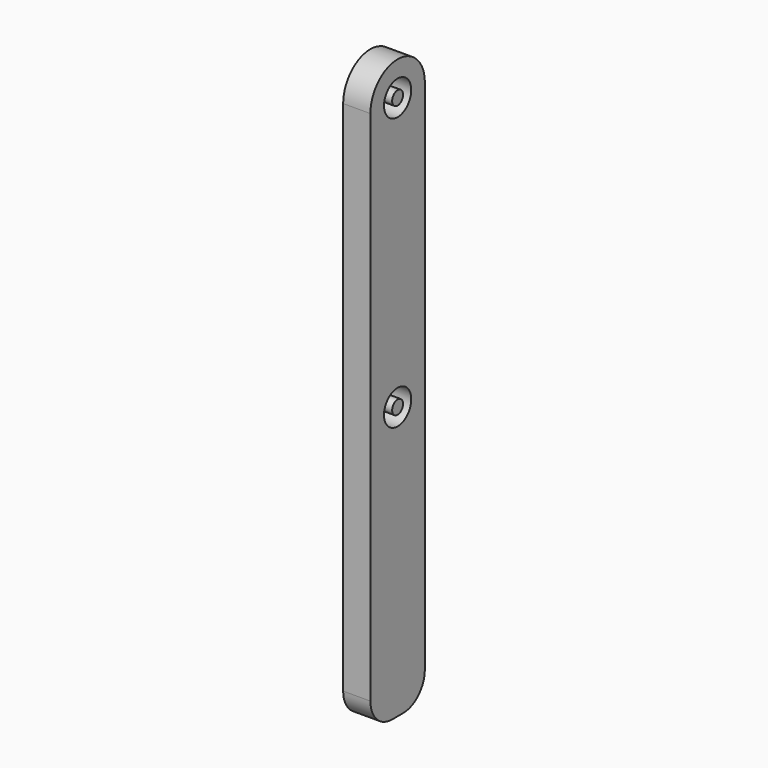
from build123d import *

# Parameters (mm, degrees)
F0_R     = 31.75
F1_DEPTH = 50.8
F2_R     = 12.7
F3_DEPTH = 50.8


with BuildPart() as f1:
    # F0 (on Right) → F1 (new body)
    with BuildSketch(Plane.YZ):
        with BuildLine():
            ThreePointArc((0, 50.8), (14.878976, 14.878976), (50.8, 0))
            Line((50.8, 0), (76.2, 0))
            ThreePointArc((76.2, 0), (112.121024, 14.878976), (127, 50.8))
            Line((127, 50.8), (127, 1016))
            ThreePointArc((127, 1016), (63.5, 1079.5), (0, 1016))
            Line((0, 1016), (0, 50.8))
        make_face()
        with Locations((63.5, 508)):
            Circle(F0_R, mode=Mode.SUBTRACT)
        with Locations((63.5, 1016)):
            Circle(F0_R, mode=Mode.SUBTRACT)
    extrude(amount=F1_DEPTH)


with BuildPart() as f3:
    # F2 (on face) → F3 (new body)
    with BuildSketch(Plane.YZ.offset(50.8)):
        with Locations((63.5, 1016)):
            Circle(F2_R)
        with Locations((63.5, 508)):
            Circle(F2_R)
    extrude(amount=-F3_DEPTH)


solid = Compound([f1.part, f3.part])
